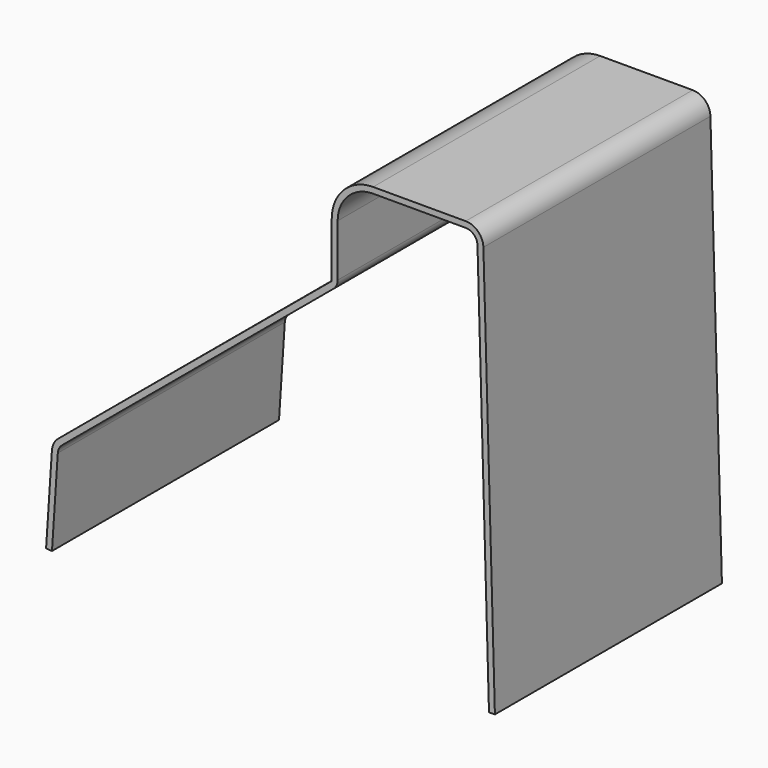
from build123d import *

# Parameters (mm, degrees)
F1_DEPTH = 152.4


with BuildPart() as f1:
    # F0 (on Front) → F1 (new body)
    with BuildSketch(Plane.XZ):
        with BuildLine():
            ThreePointArc((0, -19.05), (5.579616, -5.579616), (19.05, 0))
            Line((19.05, 0), (68.756649, 0))
            ThreePointArc((68.756649, 0), (73.183001, -1.796989), (75.104122, -6.170895))
            Line((75.104122, -6.170895), (81.28, -225.044))
            Line((81.28, -225.044), (84.453737, -224.954448))
            Line((84.453737, -224.954448), (78.277859, -6.081343))
            ThreePointArc((78.277859, -6.081343), (75.396177, 0.479516), (68.756649, 3.175))
            Line((68.756649, 3.175), (19.05, 3.175))
            ThreePointArc((19.05, 3.175), (3.334552, -3.334552), (-3.175, -19.05))
            Line((-3.175, -19.05), (-3.175, -48.549943))
            Line((-3.175, -48.549943), (-150.051296, -170.822595))
            ThreePointArc((-150.051296, -170.822595), (-152.444089, -173.818798), (-153.461524, -177.515759))
            Line((-153.461524, -177.515759), (-156.584109, -224.834937))
            Line((-156.584109, -224.834937), (-153.416, -225.044))
            Line((-153.416, -225.044), (-150.293415, -177.724822))
            ThreePointArc((-150.293415, -177.724822), (-149.615125, -175.260182), (-148.019929, -173.262713))
            Line((-148.019929, -173.262713), (-2.287266, -51.94212))
            ThreePointArc((-2.287266, -51.94212), (-0.60018, -49.756708), (0, -47.061885))
            Line((0, -47.061885), (0, -19.05))
        make_face()
    extrude(amount=F1_DEPTH)


solid = f1.part
